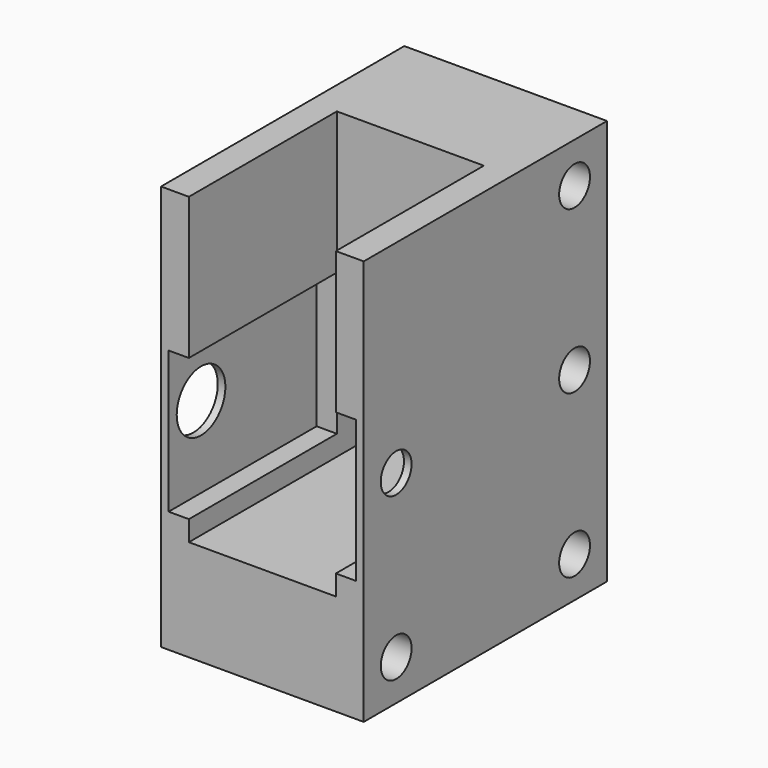
from build123d import *

# Parameters (mm, degrees)
SKETCH026_W     = 20
SKETCH026_H     = 30
PAD008_DEPTH    = 40
SKETCH027_R     = 1.9
POCKET018_DEPTH = 20.001
SKETCH028_R     = 3
POCKET019_DEPTH = 3
SKETCH029_R     = 0.5
POCKET020_DEPTH = 0.5
SKETCH030_W     = 14.5
SKETCH030_H     = 14.5
POCKET021_DEPTH = 30
SKETCH031_W     = 14.5
SKETCH031_H     = 30
POCKET022_DEPTH = 5
SKETCH032_W     = 14.5
SKETCH032_H     = 6
POCKET023_DEPTH = 11.751
SKETCH033_W     = 2
SKETCH033_H     = 14
POCKET024_DEPTH = 18.25
SKETCH034_W     = 14.5
SKETCH034_H     = 10
POCKET025_DEPTH = 4


with BuildPart() as part:
    # Sketch026 → Pad008 (new body)
    with BuildSketch(Plane.XY):
        with Locations((-43, 0)):
            Rectangle(SKETCH026_W, SKETCH026_H)
    extrude(amount=PAD008_DEPTH)

    # Sketch027 (on Face4 of Pad008) → Pocket018 (cut, through all)
    with BuildSketch(Plane(origin=(-53, 0, 0), x_dir=(0, -1, 0), z_dir=(-1, 0, 0))):
        with Locations((-11, 36)):
            Circle(SKETCH027_R)
        with Locations((11, 20)):
            Circle(SKETCH027_R)
        with Locations((-11, 20)):
            Circle(SKETCH027_R)
        with Locations((-11, 4)):
            Circle(SKETCH027_R)
        with Locations((11, 4)):
            Circle(SKETCH027_R)
    extrude(amount=-POCKET018_DEPTH, mode=Mode.SUBTRACT)

    # Sketch028 (on Face2 of Pocket018) → Pocket019 (cut)
    with BuildSketch(Plane(origin=(-53, 0, 0), x_dir=(0, -1, 0), z_dir=(-1, 0, 0))):
        with Locations((-11, 36)):
            Circle(SKETCH028_R)
        with Locations((-11, 20)):
            Circle(SKETCH028_R)
        with Locations((-11, 4)):
            Circle(SKETCH028_R)
        with Locations((11, 4)):
            Circle(SKETCH028_R)
        with Locations((11, 20)):
            Circle(SKETCH028_R)
    extrude(amount=-POCKET019_DEPTH, mode=Mode.SUBTRACT)

    # Sketch029 (on Face5 of Pocket019) → Pocket020 (cut)
    with BuildSketch(Plane.XY.offset(40)):
        with Locations((-43, -4)):
            Circle(SKETCH029_R)
    extrude(amount=-POCKET020_DEPTH, mode=Mode.SUBTRACT)

    # Sketch030 (on Face5 of Pocket020) → Pocket021 (cut)
    with BuildSketch(Plane.XY.offset(40)):
        with Locations((-43, -4)):
            Rectangle(SKETCH030_W, SKETCH030_H)
    extrude(amount=-POCKET021_DEPTH, mode=Mode.SUBTRACT)

    # Sketch031 (on Face6 of Pocket021) → Pocket022 (cut)
    with BuildSketch(Plane.XZ.offset(15)):
        with Locations((-43, 25)):
            Rectangle(SKETCH031_W, SKETCH031_H)
    extrude(amount=-POCKET022_DEPTH, mode=Mode.SUBTRACT)

    # Sketch032 (on Face17 of Pocket022) → Pocket023 (cut, through all)
    with BuildSketch(Plane.XZ.offset(-3.25)):
        with Locations((-43, 13)):
            Rectangle(SKETCH032_W, SKETCH032_H)
    extrude(amount=-POCKET023_DEPTH, mode=Mode.SUBTRACT)

    # Sketch033 (on Face7 of Pocket023) → Pocket024 (cut)
    with BuildSketch(Plane.XZ.offset(15)):
        with Locations((-51.25, 19)):
            Rectangle(SKETCH033_W, SKETCH033_H)
        with Locations((-34.75, 19)):
            Rectangle(SKETCH033_W, SKETCH033_H)
    extrude(amount=-POCKET024_DEPTH, mode=Mode.SUBTRACT)

    # Sketch034 (on Face33 of Pocket024) → Pocket025 (cut)
    with BuildSketch(Plane.XZ.offset(-3.25)):
        with Locations((-43, 21)):
            Rectangle(SKETCH034_W, SKETCH034_H)
    extrude(amount=-POCKET025_DEPTH, mode=Mode.SUBTRACT)


solid = part.part
